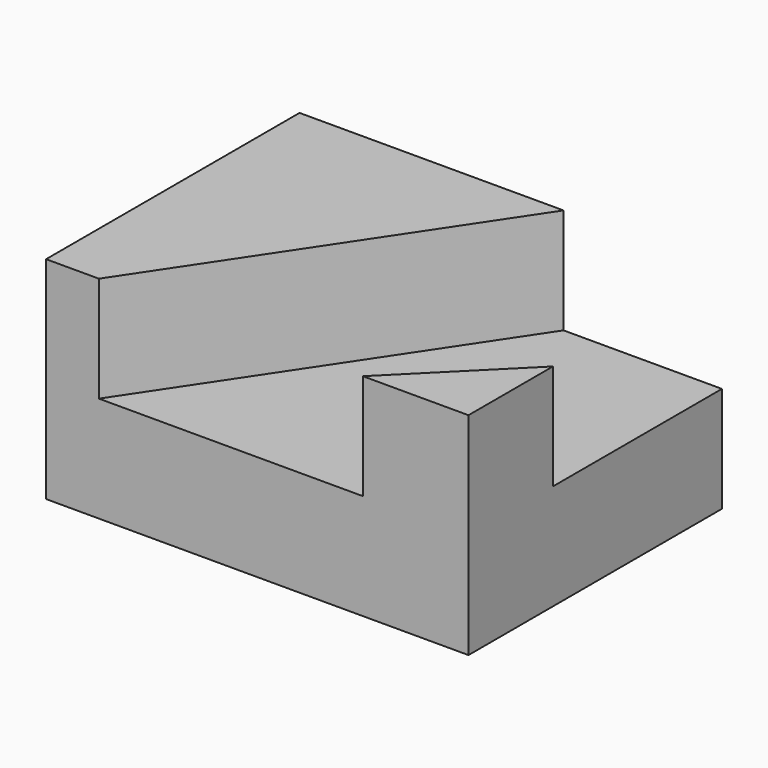
from build123d import *

# Parameters (mm, degrees)
F0_W     = 38.1
F0_H     = 12.7
F1_DEPTH = 50.8
F3_DEPTH = 12.7
F5_DEPTH = 12.7


with BuildPart() as f1:
    # F0 (on Right) → F1 (new body)
    with BuildSketch(Plane.YZ):
        with Locations((19.05, 6.35)):
            Rectangle(F0_W, F0_H)
    extrude(amount=F1_DEPTH)

    # F2 (on face) → F3 (join)
    with BuildSketch(Plane.XY.offset(12.7)):
        Polygon((31.75, 38.1), (0, 38.1), (0, 0), (6.35, 0), align=None)
    extrude(amount=F3_DEPTH)

    # F4 (on face) → F5 (join)
    with BuildSketch(Plane.XY.offset(12.7)):
        Polygon((38.1, 0), (50.8, 0), (50.8, 12.7), align=None)
    extrude(amount=F5_DEPTH)


solid = f1.part
